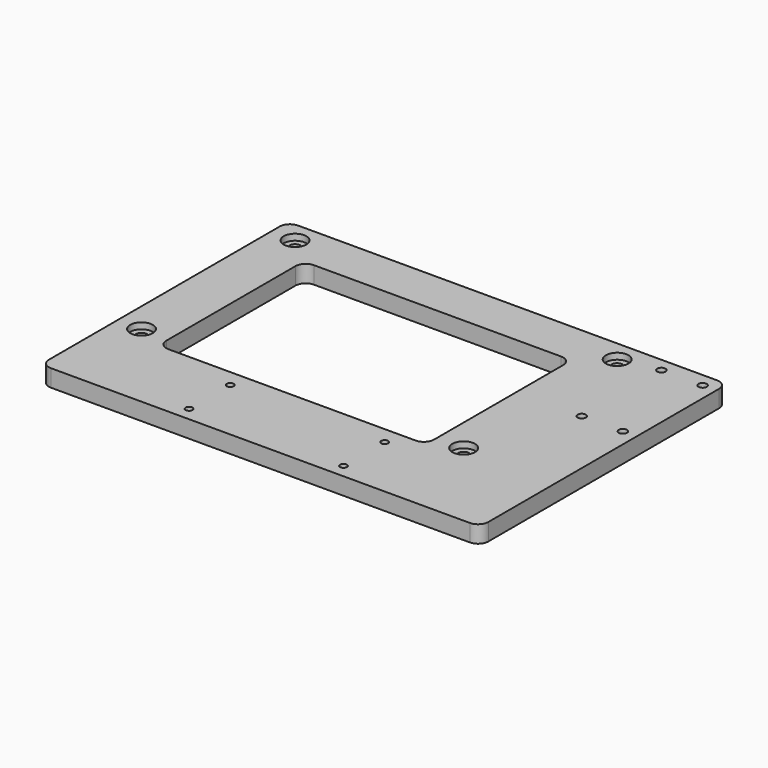
from build123d import *

# Parameters (mm, degrees)
CYLINDER051_R             = 1
CYLINDER051_DEPTH         = 25
CYLINDER052_R             = 1
CYLINDER052_DEPTH         = 25
CYLINDER053_R             = 1
CYLINDER053_DEPTH         = 25
CYLINDER057_R             = 3
CYLINDER057_DEPTH         = 2
CYLINDER058_R             = 3
CYLINDER058_DEPTH         = 2
CYLINDER059_R             = 3
CYLINDER059_DEPTH         = 2
CYLINDER060_R             = 3
CYLINDER060_DEPTH         = 2
CYLINDER050_R             = 1
CYLINDER050_DEPTH         = 25
CYLINDER020_R             = 3.3
CYLINDER020_DEPTH         = 2
CYLINDER019_R             = 3.3
CYLINDER019_DEPTH         = 2
CYLINDER017_R             = 3.3
CYLINDER017_DEPTH         = 2
CYLINDER018_R             = 3.3
CYLINDER018_DEPTH         = 2
FUSION015_PLACEMENT_ANGLE = 180
CYLINDER016_R             = 1.6
CYLINDER016_DEPTH         = 6
CYLINDER013_R             = 1.6
CYLINDER013_DEPTH         = 6
CYLINDER012_R             = 1.6
CYLINDER012_DEPTH         = 6
CYLINDER015_R             = 1.6
CYLINDER015_DEPTH         = 6
CYLINDER014_R             = 1.2
CYLINDER014_DEPTH         = 4.2
FUSION014_PLACEMENT_ANGLE = 180
CYLINDER030_R             = 1.2
CYLINDER030_DEPTH         = 12
CYLINDER031_R             = 1.2
CYLINDER031_DEPTH         = 12
CYLINDER032_R             = 1.2
CYLINDER032_DEPTH         = 12
CYLINDER033_R             = 1.2
CYLINDER033_DEPTH         = 12
CYLINDER034_R             = 3
CYLINDER034_DEPTH         = 3
CYLINDER035_R             = 3
CYLINDER035_DEPTH         = 3
CYLINDER036_R             = 3
CYLINDER036_DEPTH         = 3
CYLINDER037_R             = 3
CYLINDER037_DEPTH         = 3
BOX039_W                  = 78
BOX039_H                  = 53
BOX039_DEPTH              = 6
FILLET002029_R            = 3
BOX017_W                  = 128
BOX017_H                  = 90
BOX017_DEPTH              = 5
FILLET002014_R            = 3


with BuildPart() as obj1:
    # Cylinder051 → Cylinder051 (new body)
    with BuildSketch(Plane(origin=(-30, 9, 0), x_dir=(1, 0, 0), z_dir=(0, 0, 1))):
        Circle(CYLINDER051_R)
    extrude(amount=CYLINDER051_DEPTH)


with BuildPart() as obj2:
    # Cylinder052 → Cylinder052 (new body)
    with BuildSketch(Plane(origin=(15, -6, 0), x_dir=(1, 0, 0), z_dir=(0, 0, 1))):
        Circle(CYLINDER052_R)
    extrude(amount=CYLINDER052_DEPTH)


with BuildPart() as obj3:
    # Cylinder053 → Cylinder053 (new body)
    with BuildSketch(Plane(origin=(15, 9, 0), x_dir=(1, 0, 0), z_dir=(0, 0, 1))):
        Circle(CYLINDER053_R)
    extrude(amount=CYLINDER053_DEPTH)


with BuildPart() as obj4:
    # Cylinder057 → Cylinder057 (new body)
    with BuildSketch(Plane(origin=(15, -6, 0), x_dir=(1, 0, 0), z_dir=(0, 0, 1))):
        Circle(CYLINDER057_R)
    extrude(amount=CYLINDER057_DEPTH)


with BuildPart() as obj5:
    # Cylinder058 → Cylinder058 (new body)
    with BuildSketch(Plane(origin=(-30, -6, 0), x_dir=(1, 0, 0), z_dir=(0, 0, 1))):
        Circle(CYLINDER058_R)
    extrude(amount=CYLINDER058_DEPTH)


with BuildPart() as obj6:
    # Cylinder059 → Cylinder059 (new body)
    with BuildSketch(Plane(origin=(-30, 9, 0), x_dir=(1, 0, 0), z_dir=(0, 0, 1))):
        Circle(CYLINDER059_R)
    extrude(amount=CYLINDER059_DEPTH)


with BuildPart() as obj7:
    # Cylinder060 → Cylinder060 (new body)
    with BuildSketch(Plane(origin=(15, 9, 0), x_dir=(1, 0, 0), z_dir=(0, 0, 1))):
        Circle(CYLINDER060_R)
    extrude(amount=CYLINDER060_DEPTH)


with BuildPart() as fusion032002:
    # Cylinder050 → Cylinder050 (new body)
    with BuildSketch(Plane(origin=(-30, -6, 0), x_dir=(1, 0, 0), z_dir=(0, 0, 1))):
        Circle(CYLINDER050_R)
    extrude(amount=CYLINDER050_DEPTH)

    # Fusion032002: union obj1, obj2, obj3, obj4, obj5, obj6, obj7
    add(obj1.part)
    add(obj2.part)
    add(obj3.part)
    add(obj4.part)
    add(obj5.part)
    add(obj6.part)
    add(obj7.part)


with BuildPart() as cylinder020:
    # Cylinder020 → Cylinder020 (new body)
    with BuildSketch(Plane(origin=(46.85, -27.85, 2), x_dir=(1, 0, 0), z_dir=(0, 0, 1))):
        Circle(CYLINDER020_R)
    extrude(amount=CYLINDER020_DEPTH)


with BuildPart() as cylinder019:
    # Cylinder019 → Cylinder019 (new body)
    with BuildSketch(Plane(origin=(-47, -27.85, 2), x_dir=(1, 0, 0), z_dir=(0, 0, 1))):
        Circle(CYLINDER019_R)
    extrude(amount=CYLINDER019_DEPTH)


with BuildPart() as cylinder017:
    # Cylinder017 → Cylinder017 (new body)
    with BuildSketch(Plane(origin=(-47, 28.05, 2), x_dir=(1, 0, 0), z_dir=(0, 0, 1))):
        Circle(CYLINDER017_R)
    extrude(amount=CYLINDER017_DEPTH)


with BuildPart() as obj8:
    # Cylinder018 → Cylinder018 (new body)
    with BuildSketch(Plane(origin=(46.85, 28.05, 2), x_dir=(1, 0, 0), z_dir=(0, 0, 1))):
        Circle(CYLINDER018_R)
    extrude(amount=CYLINDER018_DEPTH)

    # Fusion015: union Cylinder020, Cylinder019, Cylinder017
    add(cylinder020.part)
    add(cylinder019.part)
    add(cylinder017.part)


with BuildPart() as obj8_1:
    # Fusion015 placement: moved
    add(obj8.part.moved(Location((-51, 46, 7.2))).rotate(Axis((-51, 46, 7.2), (1, 0, 0)), FUSION015_PLACEMENT_ANGLE))


with BuildPart() as cylinder016:
    # Cylinder016 → Cylinder016 (new body)
    with BuildSketch(Plane(origin=(46.85, 28.05, 1.2), x_dir=(1, 0, 0), z_dir=(0, 0, 1))):
        Circle(CYLINDER016_R)
    extrude(amount=CYLINDER016_DEPTH)


with BuildPart() as cylinder013:
    # Cylinder013 → Cylinder013 (new body)
    with BuildSketch(Plane(origin=(46.85, -27.85, 1.2), x_dir=(1, 0, 0), z_dir=(0, 0, 1))):
        Circle(CYLINDER013_R)
    extrude(amount=CYLINDER013_DEPTH)


with BuildPart() as cylinder012:
    # Cylinder012 → Cylinder012 (new body)
    with BuildSketch(Plane(origin=(-47, -27.85, 1.2), x_dir=(1, 0, 0), z_dir=(0, 0, 1))):
        Circle(CYLINDER012_R)
    extrude(amount=CYLINDER012_DEPTH)


with BuildPart() as cylinder015:
    # Cylinder015 → Cylinder015 (new body)
    with BuildSketch(Plane(origin=(-47, 28.05, 1.2), x_dir=(1, 0, 0), z_dir=(0, 0, 1))):
        Circle(CYLINDER015_R)
    extrude(amount=CYLINDER015_DEPTH)


with BuildPart() as obj9:
    # Cylinder014 → Cylinder014 (new body)
    with BuildSketch(Plane(origin=(46.85, -15.5, -2.3), x_dir=(0, 0, -1), z_dir=(1, 0, 0))):
        Circle(CYLINDER014_R)
    extrude(amount=CYLINDER014_DEPTH)

    # Fusion014: union Cylinder016, Cylinder013, Cylinder012, Cylinder015
    add(cylinder016.part)
    add(cylinder013.part)
    add(cylinder012.part)
    add(cylinder015.part)


with BuildPart() as obj9_1:
    # Fusion014 placement: moved
    add(obj9.part.moved(Location((-51, 46, 7.2))).rotate(Axis((-51, 46, 7.2), (1, 0, 0)), FUSION014_PLACEMENT_ANGLE))

    # Fusion: union obj8
    add(obj8_1.part)


with BuildPart() as obj9_2:
    # Fusion placement: moved
    add(obj9_1.part.moved(Location((35, 0, 0))))


with BuildPart() as obj10:
    # Cylinder030 → Cylinder030 (new body)
    with BuildSketch(Plane(origin=(54, 47, 0), x_dir=(1, 0, 0), z_dir=(0, 0, 1))):
        Circle(CYLINDER030_R)
    extrude(amount=CYLINDER030_DEPTH)


with BuildPart() as obj11:
    # Cylinder031 → Cylinder031 (new body)
    with BuildSketch(Plane(origin=(42, 47, 0), x_dir=(1, 0, 0), z_dir=(0, 0, 1))):
        Circle(CYLINDER031_R)
    extrude(amount=CYLINDER031_DEPTH)


with BuildPart() as obj12:
    # Cylinder032 → Cylinder032 (new body)
    with BuildSketch(Plane(origin=(54, 76, 0), x_dir=(1, 0, 0), z_dir=(0, 0, 1))):
        Circle(CYLINDER032_R)
    extrude(amount=CYLINDER032_DEPTH)


with BuildPart() as obj13:
    # Cylinder033 → Cylinder033 (new body)
    with BuildSketch(Plane(origin=(42, 76, 0), x_dir=(1, 0, 0), z_dir=(0, 0, 1))):
        Circle(CYLINDER033_R)
    extrude(amount=CYLINDER033_DEPTH)


with BuildPart() as obj14:
    # Cylinder034 → Cylinder034 (new body)
    with BuildSketch(Plane(origin=(54, 47, 0), x_dir=(1, 0, 0), z_dir=(0, 0, 1))):
        Circle(CYLINDER034_R)
    extrude(amount=CYLINDER034_DEPTH)


with BuildPart() as obj15:
    # Cylinder035 → Cylinder035 (new body)
    with BuildSketch(Plane(origin=(42, 47, 0), x_dir=(1, 0, 0), z_dir=(0, 0, 1))):
        Circle(CYLINDER035_R)
    extrude(amount=CYLINDER035_DEPTH)


with BuildPart() as obj16:
    # Cylinder036 → Cylinder036 (new body)
    with BuildSketch(Plane(origin=(54, 76, 0), x_dir=(1, 0, 0), z_dir=(0, 0, 1))):
        Circle(CYLINDER036_R)
    extrude(amount=CYLINDER036_DEPTH)


with BuildPart() as obj17:
    # Cylinder037 → Cylinder037 (new body)
    with BuildSketch(Plane(origin=(42, 76, 0), x_dir=(1, 0, 0), z_dir=(0, 0, 1))):
        Circle(CYLINDER037_R)
    extrude(amount=CYLINDER037_DEPTH)

    # Fusion030: union obj10, obj11, obj12, obj13, obj14, obj15, obj16
    add(obj10.part)
    add(obj11.part)
    add(obj12.part)
    add(obj13.part)
    add(obj14.part)
    add(obj15.part)
    add(obj16.part)


with BuildPart() as fusion031:
    # Box039 → Box039 (new body)
    with BuildSketch(Plane(origin=(-55, 14, 0), x_dir=(1, 0, 0), z_dir=(0, 0, 1))):
        with Locations((39, 26.5)):
            Rectangle(BOX039_W, BOX039_H)
    extrude(amount=BOX039_DEPTH)

    # Fillet002029
    fillet002029_edges = [fusion031.edges().sort_by_distance(p)[0] for p in [
        (-55, 14, 3),
        (-55, 67, 3),
        (23, 14, 3),
        (23, 67, 3),
    ]]
    fillet(fillet002029_edges, radius=FILLET002029_R)

    # Fusion031: union obj9, obj17
    add(obj9_2.part)
    add(obj17.part)


with BuildPart() as obj18:
    # Box017 → Box017 (new body)
    with BuildSketch(Plane(origin=(-70, -10, 0), x_dir=(1, 0, 0), z_dir=(0, 0, 1))):
        with Locations((64, 45)):
            Rectangle(BOX017_W, BOX017_H)
    extrude(amount=BOX017_DEPTH)

    # Fillet002014
    fillet002014_edges = [obj18.edges().sort_by_distance(p)[0] for p in [
        (-70, -10, 2.5),
        (-70, 80, 2.5),
        (58, -10, 2.5),
        (58, 80, 2.5),
    ]]
    fillet(fillet002014_edges, radius=FILLET002014_R)

    # Cut: cut Fusion031
    add(fusion031.part, mode=Mode.SUBTRACT)

    # Cut010: cut Fusion032002
    add(fusion032002.part, mode=Mode.SUBTRACT)


solid = obj18.part
